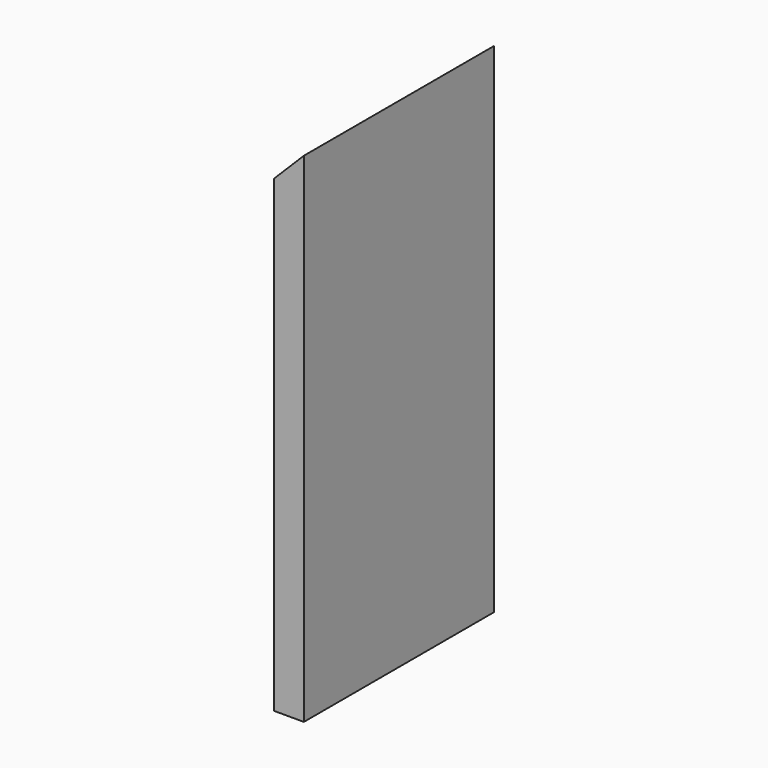
from build123d import *

# Parameters (mm, degrees)
F0_W     = 508
F0_H     = 1066.8
F1_DEPTH = 31.75
F3_DEPTH = 508.001


with BuildPart() as f1:
    # F0 (on Right) → F1 (new body, symmetric)
    with BuildSketch(Plane.YZ):
        Rectangle(F0_W, F0_H)
    extrude(amount=F1_DEPTH, both=True)

    # F2 (on face) → F3 (cut, through all)
    with BuildSketch(Plane.XZ.offset(254)):
        Polygon((-31.75, 469.9), (31.75, 533.4), (-31.75, 533.4), align=None)
    extrude(amount=-F3_DEPTH, mode=Mode.SUBTRACT)


solid = f1.part
